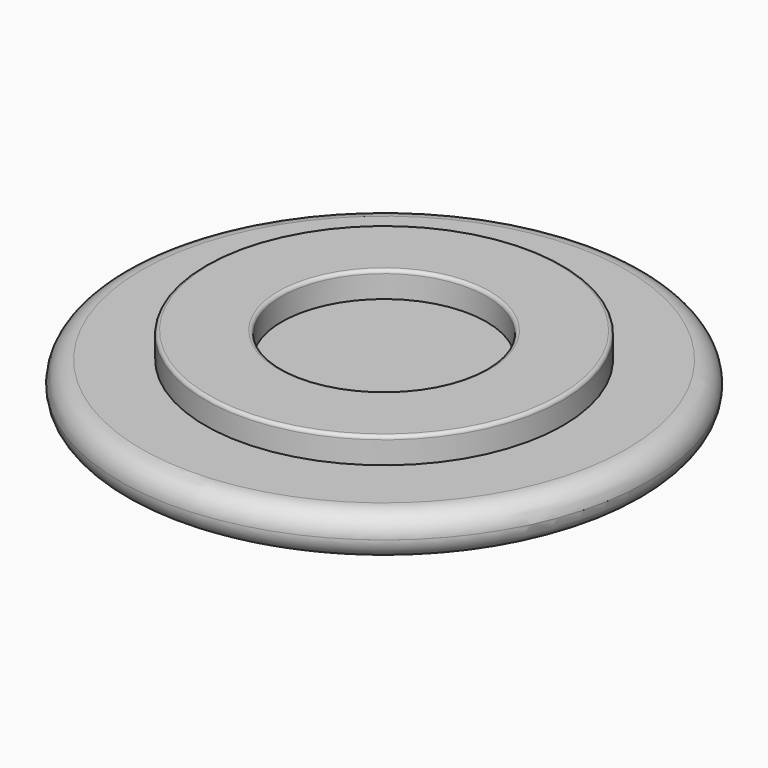
from build123d import *

# Parameters (mm, degrees)
SKETCH_R      = 15.35
PAD_DEPTH     = 1.25
SKETCH001_R   = 10.4
SKETCH001_R_2 = 5.95
PAD001_DEPTH  = 1.5
SKETCH002_R   = 10.4
SKETCH002_R_2 = 5.9
PAD002_DEPTH  = 1.5
FILLET_R      = 1.249
FILLET001_R   = 0.2
FILLET002_R   = 0.2


with BuildPart() as part:
    # Sketch → Pad (new body, symmetric)
    with BuildSketch(Plane.XY):
        Circle(SKETCH_R)
    extrude(amount=PAD_DEPTH, both=True)

    # Sketch001 → Pad001 (new body)
    with BuildSketch(Plane.XY.offset(1.25)):
        Circle(SKETCH001_R)
        Circle(SKETCH001_R_2, mode=Mode.SUBTRACT)
    extrude(amount=PAD001_DEPTH)

    # Sketch002 → Pad002 (new body)
    with BuildSketch(Plane(origin=(0, 0, -1.25), x_dir=(1, 0, 0), z_dir=(0, 0, -1))):
        Circle(SKETCH002_R)
        Circle(SKETCH002_R_2, mode=Mode.SUBTRACT)
    extrude(amount=PAD002_DEPTH)

    # Fillet
    fillet_edges = [part.edges().sort_by_distance(p)[0] for p in [
        (-15.35, 0, -1.25),
        (-15.35, 0, 1.25),
    ]]
    fillet(fillet_edges, radius=FILLET_R)

    # Fillet001
    fillet001_edges = [part.edges().sort_by_distance(p)[0] for p in [
        (-5.95, 0, 2.75),
        (-10.4, 0, 2.75),
    ]]
    fillet(fillet001_edges, radius=FILLET001_R)

    # Fillet002
    fillet002_edges = [part.edges().sort_by_distance(p)[0] for p in [
        (-5.9, 0, -2.75),
        (-10.4, 0, -2.75),
    ]]
    fillet(fillet002_edges, radius=FILLET002_R)


solid = part.part
